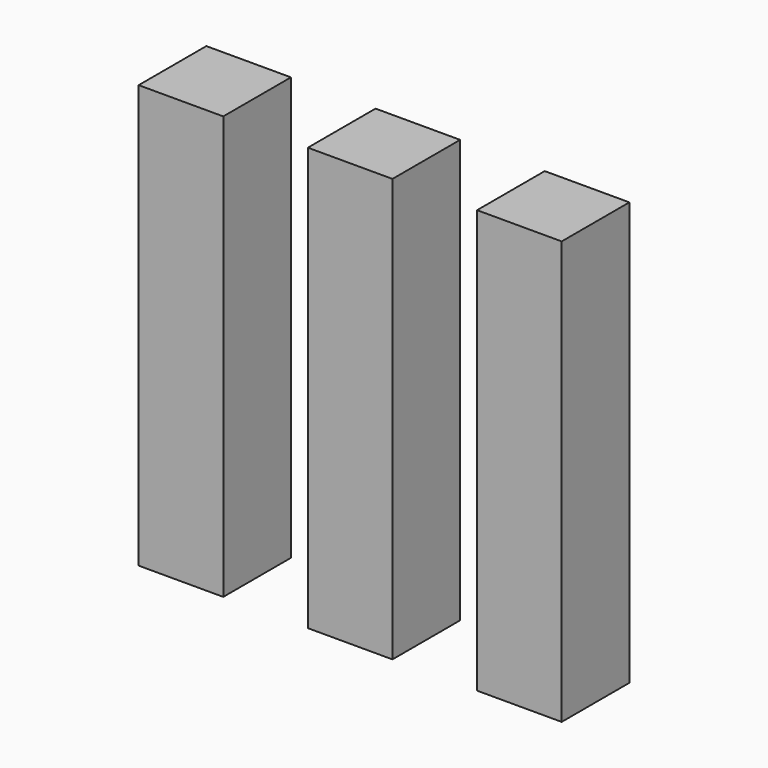
from build123d import *

# Parameters (mm, degrees)
F0_W     = 25.4
F0_H     = 127
F1_DEPTH = 12.7


with BuildPart() as f1:
    # F0 (on Front) → F1 (new body, symmetric)
    with BuildSketch(Plane.XZ):
        Rectangle(F0_W, F0_H)
        with Locations((50.8, 0)):
            Rectangle(F0_W, F0_H)
        with Locations((-50.8, 0)):
            Rectangle(F0_W, F0_H)
    extrude(amount=F1_DEPTH, both=True)


solid = f1.part
